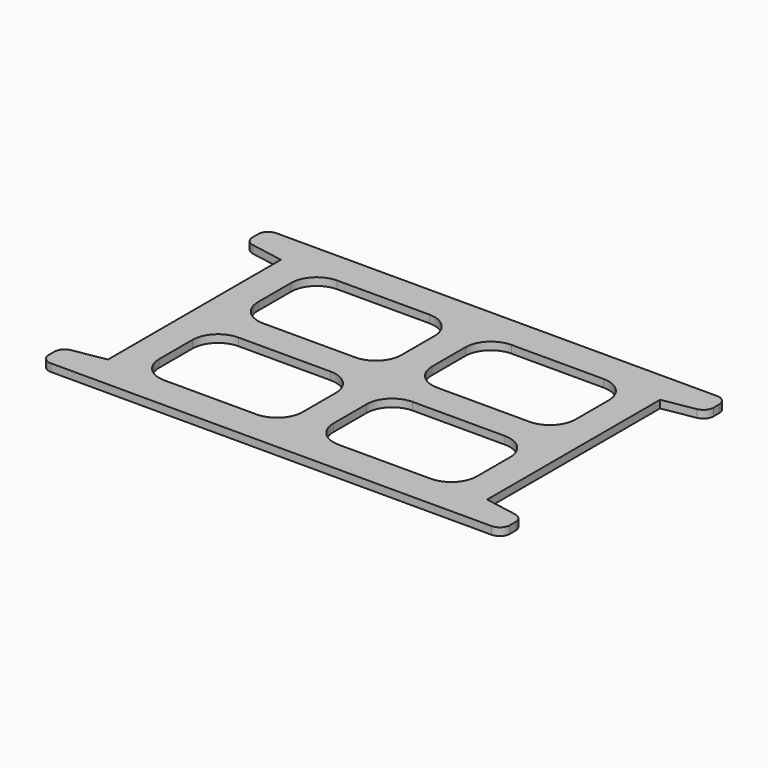
from build123d import *

# Parameters (mm, degrees)
F0_W     = 28
F0_H     = 18.089384
F1_DEPTH = 1.5
F2_R     = 5
F3_R     = 2


with BuildPart() as f1:
    # F0 (on Top) → F1 (new body)
    with BuildSketch(Plane.XY):
        Polygon((58.006592, 17.586541), (-31.993408, 17.586541), (-31.993408, 12.586541), (-23.993408, 11.175925), (-23.993408, -9.913459), (-23.993408, -31.002843), (-31.993408, -32.413459), (-31.993408, -37.413459), (58.006592, -37.413459), (58.006592, -32.413459), (50.006592, -31.002843), (50.006592, -9.913459), (50.006592, 11.175925), (58.006592, 12.586541), align=None)
        with Locations((-3.993408, -21.958151)):
            Rectangle(F0_W, F0_H, mode=Mode.SUBTRACT)
        with Locations((30.006592, -21.958151)):
            Rectangle(F0_W, F0_H, mode=Mode.SUBTRACT)
        with Locations((-3.993408, 2.131233)):
            Rectangle(F0_W, F0_H, mode=Mode.SUBTRACT)
        with Locations((30.006592, 2.131233)):
            Rectangle(F0_W, F0_H, mode=Mode.SUBTRACT)
    extrude(amount=F1_DEPTH)

    # F2
    f2_edges = [f1.edges().sort_by_distance(p)[0] for p in [
        (44.006592, 11.175925, 0.75),
        (10.006592, 11.175925, 0.75),
        (44.006592, -12.913459, 0.75),
        (10.006592, -12.913459, 0.75),
        (16.006592, 11.175925, 0.75),
        (-17.993408, 11.175925, 0.75),
        (-17.993408, -12.913459, 0.75),
        (16.006592, -12.913459, 0.75),
        (16.006592, -6.913459, 0.75),
        (-17.993408, -6.913459, 0.75),
        (-17.993408, -31.002843, 0.75),
        (16.006592, -31.002843, 0.75),
        (44.006592, -6.913459, 0.75),
        (10.006592, -6.913459, 0.75),
        (44.006592, -31.002843, 0.75),
        (10.006592, -31.002843, 0.75),
    ]]
    fillet(f2_edges, radius=F2_R)

    # F3
    f3_edges = [f1.edges().sort_by_distance(p)[0] for p in [
        (-31.993408, 12.586541, 0.75),
        (-31.993408, -32.413459, 0.75),
        (58.006592, 12.586541, 0.75),
        (58.006592, -32.413459, 0.75),
        (58.006592, 17.586541, 0.75),
        (58.006592, -37.413459, 0.75),
        (-31.993408, -37.413459, 0.75),
        (-31.993408, 17.586541, 0.75),
    ]]
    fillet(f3_edges, radius=F3_R)


solid = f1.part
